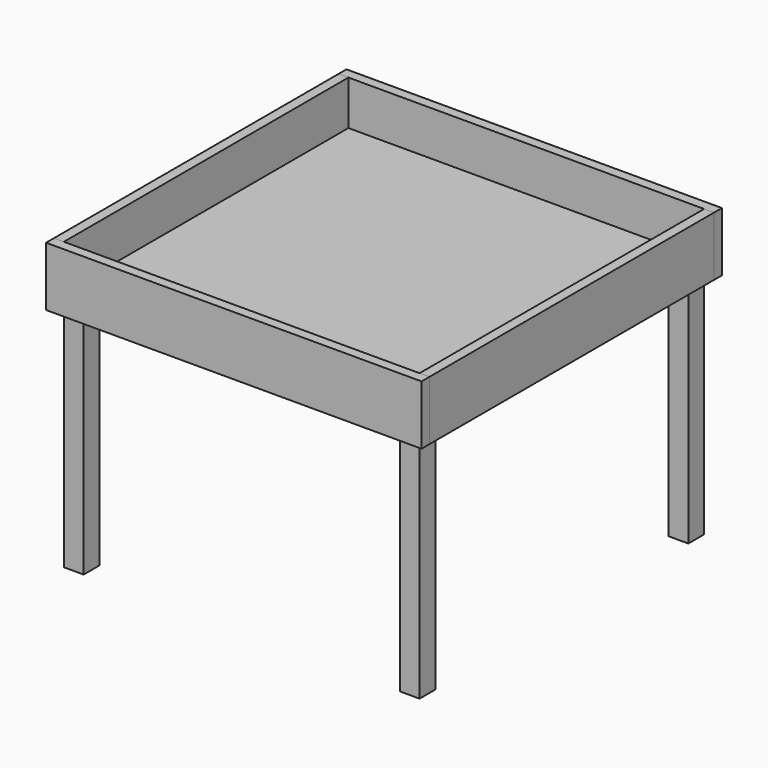
from build123d import *

# Parameters (mm, degrees)
F0_W      = 914.4
F0_H      = 914.4
F1_DEPTH  = 12.7
F2_W      = 965.2
F2_H      = 152.4
F3_DEPTH  = 25.4
F4_W      = 965.2
F4_H      = 152.4
F5_DEPTH  = 25.4
F6_W      = 914.4
F6_H      = 152.4
F7_DEPTH  = 25.4
F8_W      = 914.4
F8_H      = 152.4
F9_DEPTH  = 25.4
F11_DEPTH = 25.4
F12_W     = 50.8
F12_H     = 50.8
F13_DEPTH = 609.6


with BuildPart() as f1:
    # F0 (on Top) → F1 (new body)
    with BuildSketch(Plane.XY):
        Rectangle(F0_W, F0_H)
    extrude(amount=-F1_DEPTH)

    # F2 (on face) → F3 (join)
    with BuildSketch(Plane.XZ.offset(457.2)):
        with Locations((0, 38.1)):
            Rectangle(F2_W, F2_H)
    extrude(amount=F3_DEPTH)

    # F4 (on face) → F5 (join)
    with BuildSketch(Plane(origin=(0, 457.2, 0), x_dir=(-1, 0, 0), z_dir=(0, 1, 0))):
        with Locations((0, 38.1)):
            Rectangle(F4_W, F4_H)
    extrude(amount=F5_DEPTH)


with BuildPart() as f7:
    # F6 (on face) → F7 (new body)
    with BuildSketch(Plane(origin=(-457.2, 0, 0), x_dir=(0, -1, 0), z_dir=(-1, 0, 0))):
        with Locations((0, 38.1)):
            Rectangle(F6_W, F6_H)
    extrude(amount=F7_DEPTH)


with BuildPart() as f9:
    # F8 (on face) → F9 (new body)
    with BuildSketch(Plane.YZ.offset(457.2)):
        with Locations((0, 38.1)):
            Rectangle(F8_W, F8_H)
    extrude(amount=F9_DEPTH)


with BuildPart() as f11:
    # F10 (on face) → F11 (new body)
    with BuildSketch(Plane(origin=(0, 0, -12.7), x_dir=(1, 0, 0), z_dir=(0, 0, -1))):
        Polygon((-457.2, 304.8), (-304.8, 457.2), (-340.721024, 457.2), (-457.2, 340.721024), align=None)
        Polygon((340.721024, 457.2), (304.8, 457.2), (457.2, 304.8), (457.2, 340.721024), align=None)
        Polygon((340.721024, -457.2), (457.2, -340.721024), (457.2, -304.8), (304.8, -457.2), align=None)
        Polygon((-340.721024, -457.2), (-304.8, -457.2), (-457.2, -304.8), (-457.2, -340.721024), align=None)
    extrude(amount=F11_DEPTH)


with BuildPart() as f13:
    # F12 (on face) → F13 (new body)
    with BuildSketch(Plane(origin=(0, 0, -12.7), x_dir=(1, 0, 0), z_dir=(0, 0, -1))):
        with Locations((-431.8, 431.8)):
            Rectangle(F12_W, F12_H)
        with Locations((431.8, 431.8)):
            Rectangle(F12_W, F12_H)
        with Locations((431.8, -431.8)):
            Rectangle(F12_W, F12_H)
        with Locations((-431.8, -431.8)):
            Rectangle(F12_W, F12_H)
    extrude(amount=F13_DEPTH)


solid = Compound([f1.part, f7.part, f9.part, f11.part, f13.part])
